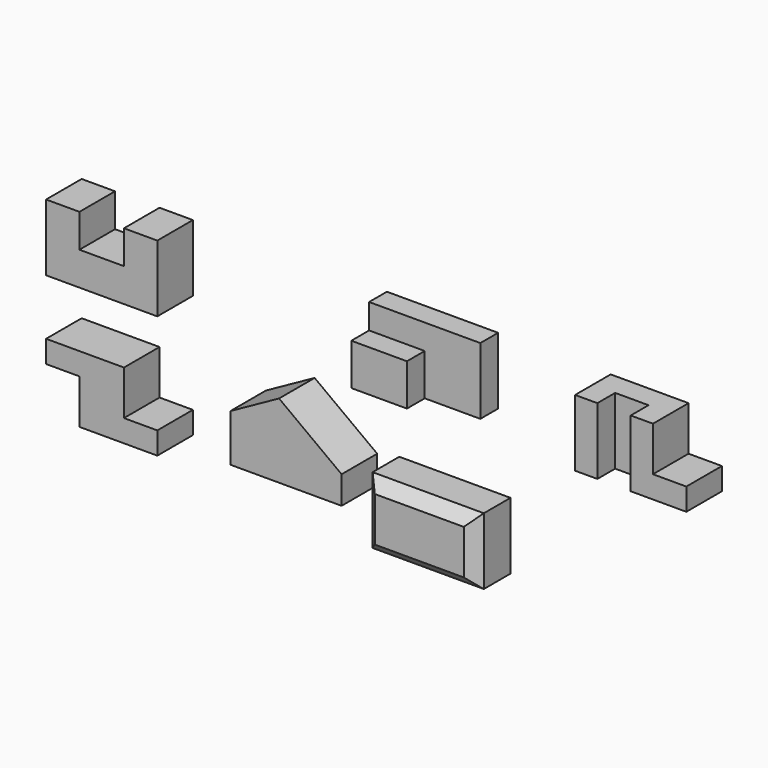
from build123d import *

# Parameters (mm, degrees)
F1_DEPTH  = 101.6
F2_W      = 254
F2_H      = 152.4
F3_DEPTH  = 101.6
F5_DEPTH  = 50.8
F7_DEPTH  = 101.6
F8_W      = 76.2
F8_H      = 50.8
F9_DEPTH  = 152.4
F11_DEPTH = 101.6
F13_DEPTH = 101.6
F14_W     = 254
F14_H     = 152.4
F15_DEPTH = 101.6
F16_SIZE  = 25.4


with BuildPart() as f1:
    # F0 (on Front) → F1 (new body)
    with BuildSketch(Plane.XZ):
        Polygon((0, 152.4), (0, 0), (254, 0), (254, 152.4), (177.8, 152.4), (177.8, 76.2), (76.2, 76.2), (76.2, 152.4), align=None)
    extrude(amount=-F1_DEPTH)


with BuildPart() as f3:
    # F2 (on Front) → F3 (new body)
    with BuildSketch(Plane.XZ):
        with Locations((824.049418, 76.2)):
            Rectangle(F2_W, F2_H)
    extrude(amount=-F3_DEPTH)

    # F4 (on face) → F5 (cut)
    with BuildSketch(Plane.XZ):
        Polygon((824.049418, 0), (951.049418, 0), (951.049418, 152.4), (697.049418, 152.4), (697.049418, 95.189988), (824.049418, 95.189988), align=None)
    extrude(amount=-F5_DEPTH, mode=Mode.SUBTRACT)


with BuildPart() as f7:
    # F6 (on Front) → F7 (new body)
    with BuildSketch(Plane.XZ):
        Polygon((1208.132236, 152.4), (1208.132236, 0), (1462.132236, 0), (1462.132236, 50.8), (1385.932236, 50.8), (1385.932236, 152.4), align=None)
    extrude(amount=-F7_DEPTH)

    # F8 (on face) → F9 (cut)
    with BuildSketch(Plane.XY.offset(152.4)):
        with Locations((1297.032236, 25.4)):
            Rectangle(F8_W, F8_H)
    extrude(amount=-F9_DEPTH, mode=Mode.SUBTRACT)


with BuildPart() as f11:
    # F10 (on Front) → F11 (new body)
    with BuildSketch(Plane.XZ):
        Polygon((0, -127.597199), (0, -178.397199), (76.2, -178.397199), (76.2, -279.997199), (254, -279.997199), (254, -229.197199), (177.8, -229.197199), (177.8, -127.597199), align=None)
    extrude(amount=-F11_DEPTH)


with BuildPart() as f13:
    # F12 (on Front) → F13 (new body)
    with BuildSketch(Plane.XZ):
        Polygon((420.883868, -136.024201), (420.883868, -243.974201), (674.883868, -243.974201), (674.883868, -180.474201), (532.042295, -74.601046), align=None)
    extrude(amount=-F13_DEPTH)


with BuildPart() as f15:
    # F14 (on Front) → F15 (new body)
    with BuildSketch(Plane.XZ):
        with Locations((933.613863, -178.651858)):
            Rectangle(F14_W, F14_H)
    extrude(amount=F15_DEPTH)

    # F16
    f16_edges = [f15.edges().sort_by_distance(p)[0] for p in [
        (806.613863, -101.6, -178.651858),
        (933.613863, -101.6, -254.851858),
        (1060.613863, -101.6, -178.651858),
        (933.613863, -101.6, -102.451858),
    ]]
    chamfer(f16_edges, length=F16_SIZE)


solid = Compound([f1.part, f3.part, f7.part, f11.part, f13.part, f15.part])
